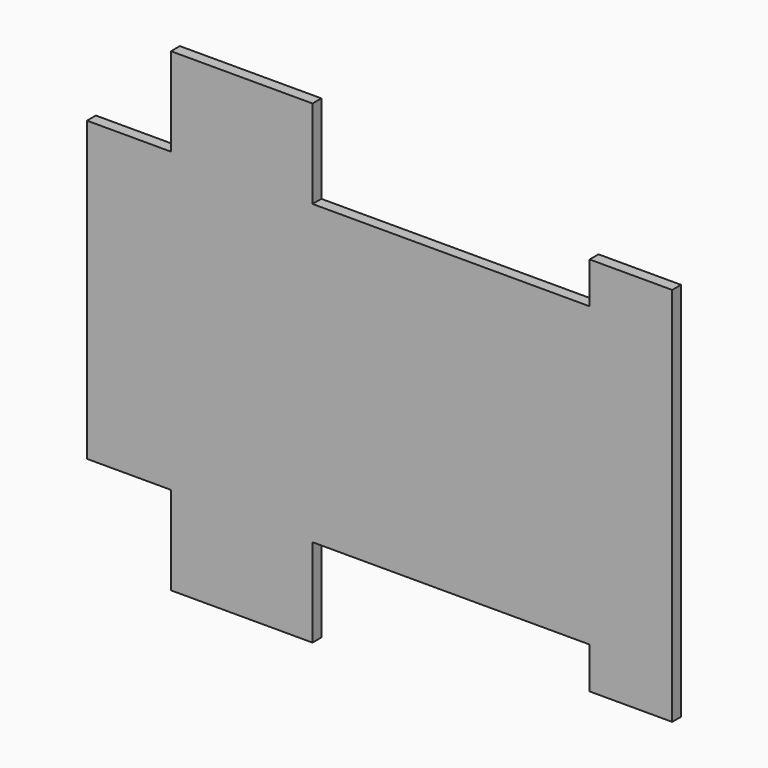
from build123d import *

# Parameters (mm, degrees)
F1_DEPTH = 2


with BuildPart() as f1:
    # F0 (on Front) → F1 (new body)
    with BuildSketch(Plane.XZ):
        Polygon((0, 26.84721), (0, 0), (105.528139, 0), (105.528139, 34.290001), (90.642557, 34.290001), (90.642557, 26.84721), (40.669538, 26.84721), (40.669538, 42.796049), (15.151395, 42.796049), (15.151395, 26.84721), align=None)
    extrude(amount=F1_DEPTH)

    # F2: F1 across plane


with BuildPart() as f1_1:
    add(f1.part)
    add(f1.part.mirror(Plane.XY))


solid = f1_1.part
